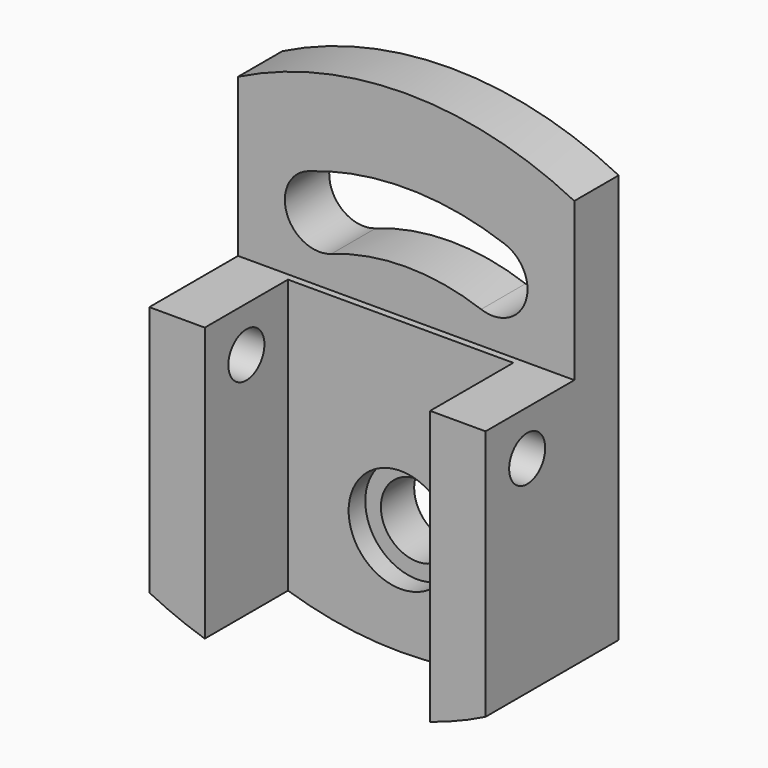
from build123d import *

# Parameters (mm, degrees)
F1_DEPTH       = 16
F2_DEPTH       = 18
F4_D           = 21
F4_CBORE_D     = 30
F4_CBORE_DEPTH = 6
F6_DEPTH       = 30
F8_D           = 13


with BuildPart() as f1:
    # F0 (on Front) → F1 (new body)
    with BuildSketch(Plane.XZ):
        with BuildLine():
            Line((-48.5, 13.5), (48.5, 13.5))
            Line((48.5, 13.5), (48.5, 58.997409))
            ThreePointArc((48.5, 58.997409), (0, 70.5), (-48.5, 58.997409))
            Line((-48.5, 58.997409), (-48.5, 13.5))
        make_face()
        with BuildLine():
            ThreePointArc((-28.378378, 41.561164), (0, 46.5), (28.378378, 41.561164))
            ThreePointArc((28.378378, 41.561164), (34.412043, 28.770742), (21.621622, 22.737077))
            ThreePointArc((21.621622, 22.737077), (0, 26.5), (-21.621622, 22.737077))
            ThreePointArc((-21.621622, 22.737077), (-34.412043, 28.770742), (-28.378378, 41.561164))
        make_face(mode=Mode.SUBTRACT)
    extrude(amount=F1_DEPTH)

    # F0 (on Front) → F2 (join)
    with BuildSketch(Plane.XZ):
        with BuildLine():
            ThreePointArc((-48.5, -58.997409), (0, -70.5), (48.5, -58.997409))
            Line((48.5, -58.997409), (48.5, 13.5))
            Line((48.5, 13.5), (-48.5, 13.5))
            Line((-48.5, 13.5), (-48.5, -58.997409))
        make_face()
    extrude(amount=F2_DEPTH)

    # F4 (through all)
    with Locations(Plane.XZ.offset(18)):
        with Locations((0, -39.5)):
            CounterBoreHole(F4_D / 2, F4_CBORE_D / 2, F4_CBORE_DEPTH)

    # F5 (on face) → F6 (join)
    with BuildSketch(Plane.XZ.offset(18)):
        with BuildLine():
            Line((-48.5, 13.5), (-48.5, -58.997409))
            ThreePointArc((-48.5, -58.997409), (-40.630053, -62.565972), (-32.5, -65.493932))
            Line((-32.5, -65.493932), (-32.5, 13.5))
            Line((-32.5, 13.5), (-48.5, 13.5))
        make_face()
        with BuildLine():
            ThreePointArc((32.5, -65.493932), (40.630053, -62.565972), (48.5, -58.997409))
            Line((48.5, -58.997409), (48.5, 13.5))
            Line((48.5, 13.5), (32.5, 13.5))
            Line((32.5, 13.5), (32.5, -65.493932))
        make_face()
    extrude(amount=F6_DEPTH)

    # F8 (through all)
    with Locations(Plane(origin=(-48.5, 0, 0), x_dir=(0, -1, 0), z_dir=(-1, 0, 0))):
        with Locations((33, 0.5)):
            Hole(F8_D / 2)


solid = f1.part
